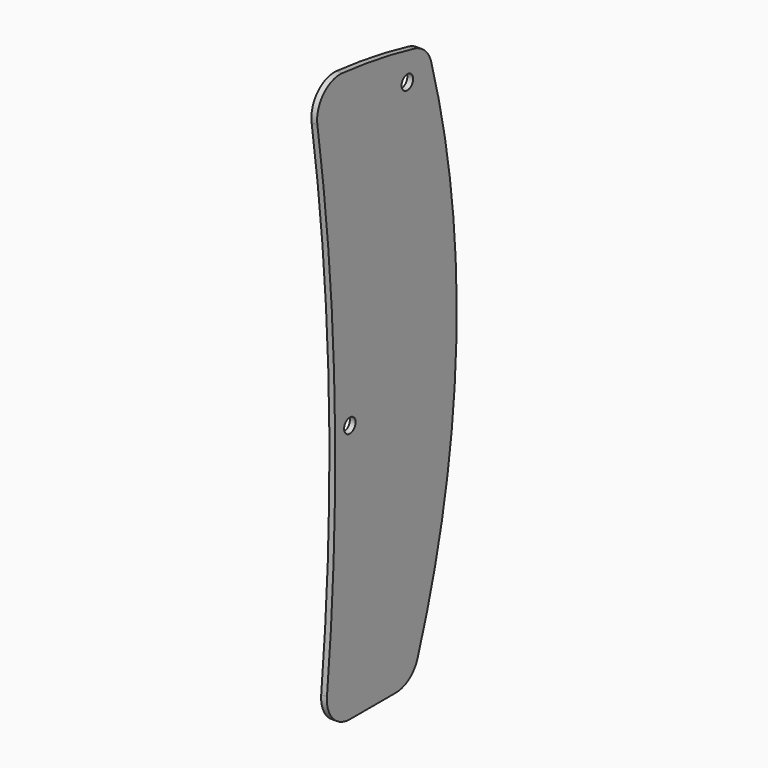
from build123d import *

# Parameters (mm, degrees)
F0_W     = 130
F0_H     = 400
F0_R     = 5
F1_DEPTH = 4
F3_DEPTH = 5


with BuildPart() as f1:
    # F0 (on Right) → F1 (new body)
    with BuildSketch(Plane.YZ):
        with Locations((-28.497371, -1.37512)):
            Rectangle(F0_W, F0_H)
        with Locations((-63.497371, -21.37512)):
            Circle(F0_R, mode=Mode.SUBTRACT)
        with Locations((-13.497371, 168.62488)):
            Circle(F0_R, mode=Mode.SUBTRACT)
    extrude(amount=F1_DEPTH)

    # F2 (on face) → F3 (intersect)
    with BuildSketch(Plane.YZ):
        with BuildLine():
            ThreePointArc((-91.758037, 174.317055), (-76.660595, -2.275866), (-83.398097, -179.384868))
            ThreePointArc((-83.398097, -179.384868), (-78.326482, -194.79516), (-63.497371, -201.37512))
            Line((-63.497371, -201.37512), (-23.497371, -201.37512))
            ThreePointArc((-23.497371, -201.37512), (-11.939199, -197.69715), (-4.632088, -188.015985))
            ThreePointArc((-4.632088, -188.015985), (29.081884, -8.612485), (7.289094, 172.625817))
            ThreePointArc((7.289094, 172.625817), (1.908539, 181.642764), (-7.298468, 186.691201))
            ThreePointArc((-7.298468, 186.691201), (-38.508536, 193.035445), (-70.089166, 197.156317))
            ThreePointArc((-70.089166, 197.156317), (-86.482566, 191.010783), (-91.758037, 174.317055))
        make_face()
    extrude(amount=F3_DEPTH, mode=Mode.INTERSECT)


solid = f1.part
